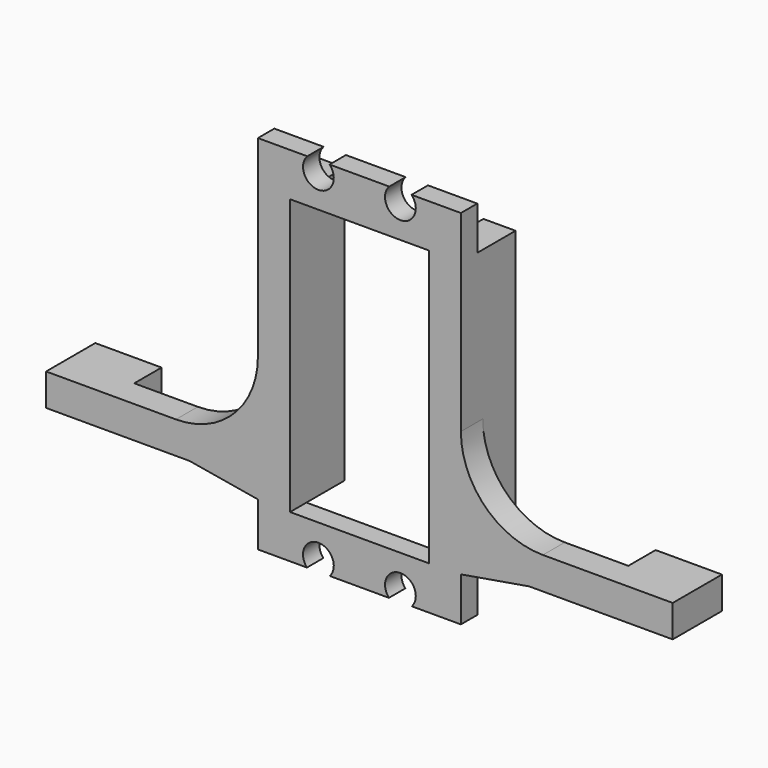
from build123d import *

# Parameters (mm, degrees)
SKETCH055_R       = 2.25
PAD023_DEPTH      = 10
SKETCH056_W       = 4.7
SKETCH056_H       = 4
PAD024_DEPTH      = 31
SKETCH057_W       = 9.7
SKETCH057_H       = 4.7
PAD025_DEPTH      = 5
SKETCH058_W       = 14.85
SKETCH058_H       = 7.35
POCKET028_DEPTH   = 7
POCKET028_FACE1_W = 3
POCKET028_FACE1_H = 14.85
POCKET029_DEPTH   = 1
POCKET029_FACE4_W = 3
POCKET029_FACE4_H = 14.85
POCKET030_DEPTH   = 1
FILLET005_R       = 12
CHAMFER002_SIZE2  = 10
CHAMFER002_SIZE   = 1.7


with BuildPart() as part:
    # Sketch055 → Pad023 (new body)
    with BuildSketch(Plane.XZ):
        Polygon((-10.15, 29.65), (-10.15, -10.65), (0, -10.65), (0, -18), (-14.85, -18), (-14.85, 37), (0, 37), (0, 29.65), align=None)
        with Locations((-6, 34.45)):
            Circle(SKETCH055_R, mode=Mode.SUBTRACT)
        with Locations((-6, -15.5)):
            Circle(SKETCH055_R, mode=Mode.SUBTRACT)
    extrude(amount=-PAD023_DEPTH)

    # Sketch056 (on Face8 of Pad023) → Pad024 (join)
    with BuildSketch(Plane(origin=(-14.85, 0, 0), x_dir=(0, 0, -1), z_dir=(-1, 0, 0))):
        with Locations((6.5, -2)):
            Rectangle(SKETCH056_W, SKETCH056_H)
    extrude(amount=PAD024_DEPTH)

    # Sketch057 (on Face7 of Pad024) → Pad025 (join)
    with BuildSketch(Plane(origin=(0, 4, 0), x_dir=(1, 0, 0), z_dir=(0, 1, 0))):
        with Locations((-41, 6.5)):
            Rectangle(SKETCH057_W, SKETCH057_H)
    extrude(amount=PAD025_DEPTH)

    # Sketch058 (on Face5 of Pad025) → Pocket028 (cut)
    with BuildSketch(Plane(origin=(0, 10, 0), x_dir=(1, 0, 0), z_dir=(0, 1, 0))):
        with Locations((-7.425, 14.325)):
            Rectangle(SKETCH058_W, SKETCH058_H)
        with Locations((-7.425, -33.325)):
            Rectangle(SKETCH058_W, SKETCH058_H)
    extrude(amount=-POCKET028_DEPTH, mode=Mode.SUBTRACT)

    # Pocket028 Face1 → Pocket029 (cut)
    with BuildSketch(Plane(origin=(-7.425, 1.5, 37), x_dir=(0, 1, 0), z_dir=(0, 0, 1))):
        Rectangle(POCKET028_FACE1_W, POCKET028_FACE1_H)
    extrude(amount=-POCKET029_DEPTH, mode=Mode.SUBTRACT)

    # Pocket029 Face4 → Pocket030 (cut)
    with BuildSketch(Plane(origin=(-7.425, 1.5, -18), x_dir=(0, -1, 0), z_dir=(0, 0, -1))):
        Rectangle(POCKET029_FACE4_W, POCKET029_FACE4_H)
    extrude(amount=-POCKET030_DEPTH, mode=Mode.SUBTRACT)

    # Fillet005
    fillet005_edges = [part.edges().sort_by_distance(p)[0] for p in [
        (-14.85, 2, -4.15),
    ]]
    fillet(fillet005_edges, radius=FILLET005_R)

    # Chamfer002
    chamfer002_edges = [part.edges().sort_by_distance(p)[0] for p in [
        (-14.85, 2, -8.85),
    ]]
    chamfer002_side = part.faces().sort_by_distance((-14.85, 5.179134, 11.284665))[0]
    chamfer(chamfer002_edges, length=CHAMFER002_SIZE, length2=CHAMFER002_SIZE2, reference=chamfer002_side)

    # Mirrored002: part across YZ


with BuildPart() as part_1:
    add(part.part)
    add(part.part.mirror(Plane.YZ))


with BuildPart() as part_2:
    # Body012 placement: moved
    add(part_1.part.moved(Location((0, 13.9, 0))))


solid = part_2.part
